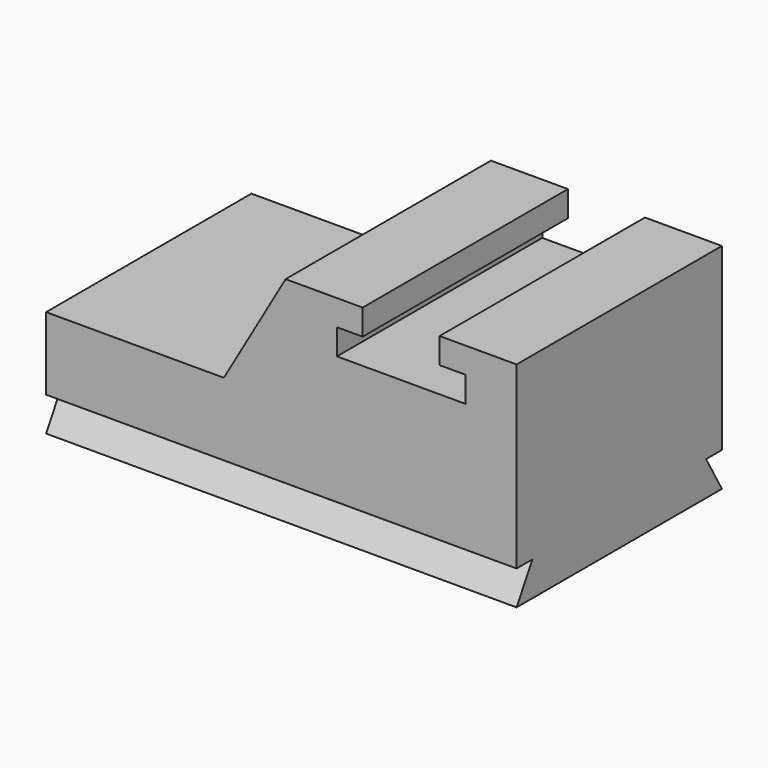
from build123d import *

# Parameters (mm, degrees)
F1_DEPTH = 1524
F3_DEPTH = 2794


with BuildPart() as f1:
    # F0 (on Front) → F1 (new body)
    with BuildSketch(Plane.XZ):
        Polygon((-351.252519, 436.860874), (-351.252519, 5.060874), (2442.747481, 5.060874), (2442.747481, 1071.860874), (1985.547481, 1071.860874), (1985.547481, 919.460874), (2137.947481, 919.460874), (2137.947481, 767.060874), (1375.947481, 767.060874), (1375.947481, 919.460874), (1528.347481, 919.460874), (1528.347481, 1071.860874), (1071.147481, 1071.860874), (704.53006, 436.860874), align=None)
    extrude(amount=F1_DEPTH)

    # F2 (on face) → F3 (join)
    with BuildSketch(Plane(origin=(-351.252519, 0, 0), x_dir=(0, -1, 0), z_dir=(-1, 0, 0))):
        Polygon((1406.682425, 5.060874), (117.317575, 5.060874), (0, -198.139126), (1524, -198.139126), align=None)
    extrude(amount=-F3_DEPTH)


solid = f1.part
